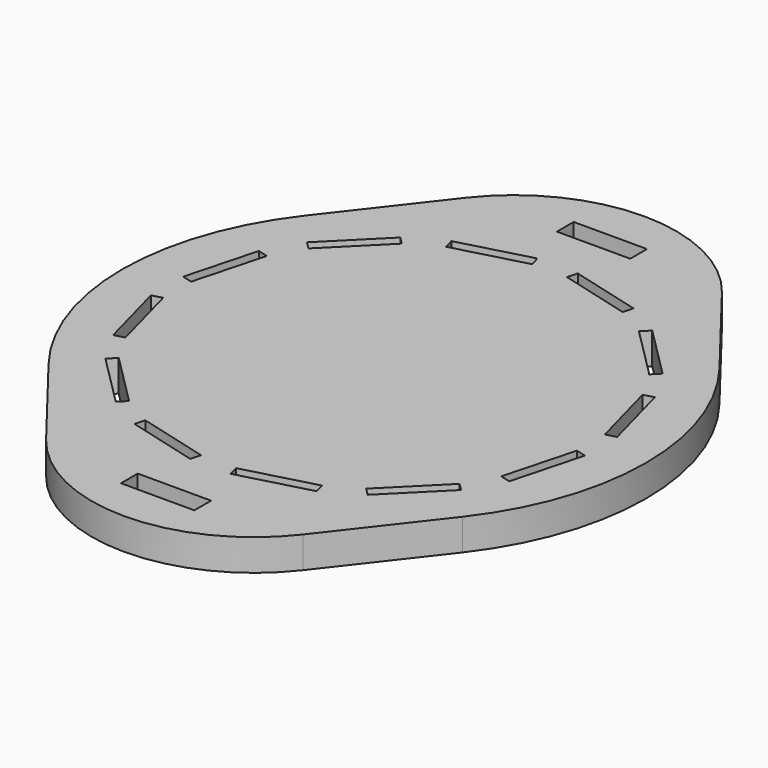
from build123d import *

# Parameters (mm, degrees)
PAD_DEPTH             = 1.5
SKETCH006_W           = 3.5
SKETCH006_H           = 1
POCKET_DEPTH          = 81.206709
POLARPATTERN_COUNT    = 2
SKETCH014_W           = 0.5
SKETCH014_H           = 3.5
POCKET004_DEPTH       = 81.206709
POLARPATTERN003_COUNT = 12


with BuildPart() as part:
    # Sketch → Pad (new body)
    with BuildSketch(Plane.XY):
        with BuildLine():
            ThreePointArc((-9.876975, 7.66129), (-12.5, 0), (-9.876975, -7.66129))
            Line((-9.876975, -7.66129), (-6.123724, -12.5))
            ThreePointArc((-6.123724, -12.5), (0, -15.5), (6.123724, -12.5))
            Line((6.123724, -12.5), (9.876996, -7.661263))
            ThreePointArc((9.876996, -7.661263), (12.5, 0), (9.876996, 7.661263))
            Line((6.123742, 12.499977), (9.876996, 7.661263))
            ThreePointArc((6.123742, 12.499977), (1.7e-05, 15.5), (-6.123722, 12.500003))
            Line((-9.876975, 7.66129), (-6.123722, 12.500003))
        make_face()
    extrude(amount=PAD_DEPTH)

    # Sketch006 → Pocket (cut, through all)
    with BuildSketch(Plane.XY):
        with Locations((0, -13)):
            Rectangle(SKETCH006_W, SKETCH006_H)
    pocket = extrude(amount=POCKET_DEPTH, mode=Mode.SUBTRACT)

    # PolarPattern: Pocket ×2 about axis
    polarpattern_axis = Axis((0, 0, 0), (0, 0, 1))
    for i in range(1, POLARPATTERN_COUNT):
        add(pocket.rotate(polarpattern_axis, i * 360 / POLARPATTERN_COUNT), mode=Mode.SUBTRACT)

    # Sketch014 → Pocket004 (cut, through all)
    with BuildSketch(Plane(origin=(0, 0, 0), x_dir=(0.965926, 0.258819, 0), z_dir=(0, 0, 1))):
        with Locations((-10, 0)):
            Rectangle(SKETCH014_W, SKETCH014_H)
    pocket004 = extrude(amount=POCKET004_DEPTH, mode=Mode.SUBTRACT)

    # PolarPattern003: Pocket004 ×12 about axis
    polarpattern003_axis = Axis((0, 0, 0), (0, 0, 1))
    for i in range(1, POLARPATTERN003_COUNT):
        add(pocket004.rotate(polarpattern003_axis, i * 360 / POLARPATTERN003_COUNT), mode=Mode.SUBTRACT)


solid = part.part
